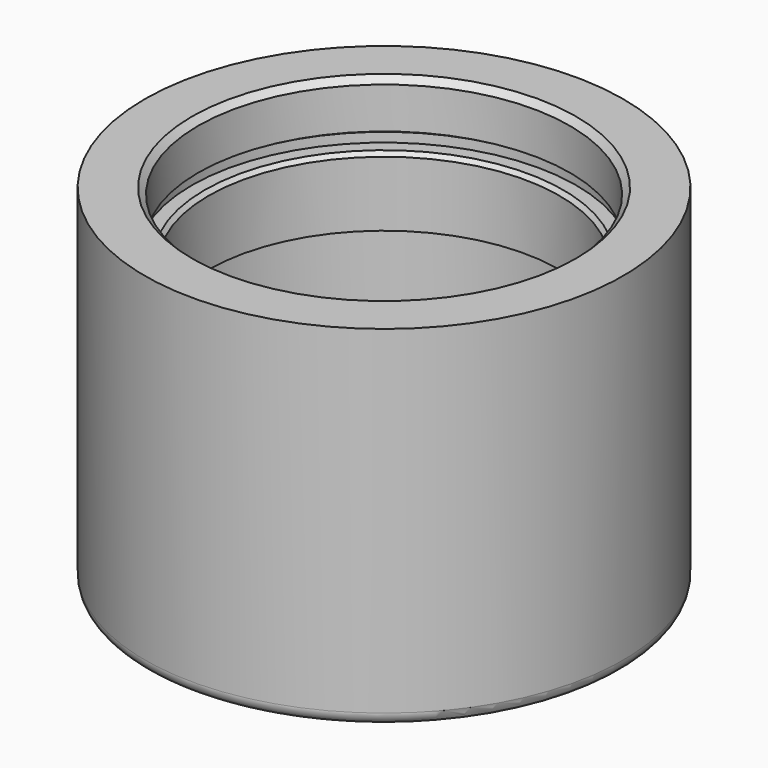
from build123d import *

# Parameters (mm, degrees)
F4_R = 1.27


with BuildPart() as f1:
    # F0 (on Front) → F1 (revolve)
    with BuildSketch(Plane.XZ):
        Polygon((-19.11985, 34.925), (-23.8125, 34.925), (-23.8125, 0), (-20.3835, 0), (-19.1135, 1.27), (-19.1135, 3.175), (-20.32, 3.175), (-20.32, 4.5974), (-19.0754, 4.5974), (-19.0754, 22.0472), (-17.4625, 22.0472), (-17.4625, 28.5242), (-17.8435, 28.9052), (-19.11985, 28.9052), (-19.11985, 29.845), (-18.5039, 30.200619), (-18.5039, 34.30905), align=None)
    revolve(axis=Axis((0, 0, 12.346035), (0, 0, 1)))

    # F4
    f4_edges = [f1.edges().sort_by_distance(p)[0] for p in [
        (23.8125, 0, 0),
    ]]
    fillet(f4_edges, radius=F4_R)


solid = f1.part
